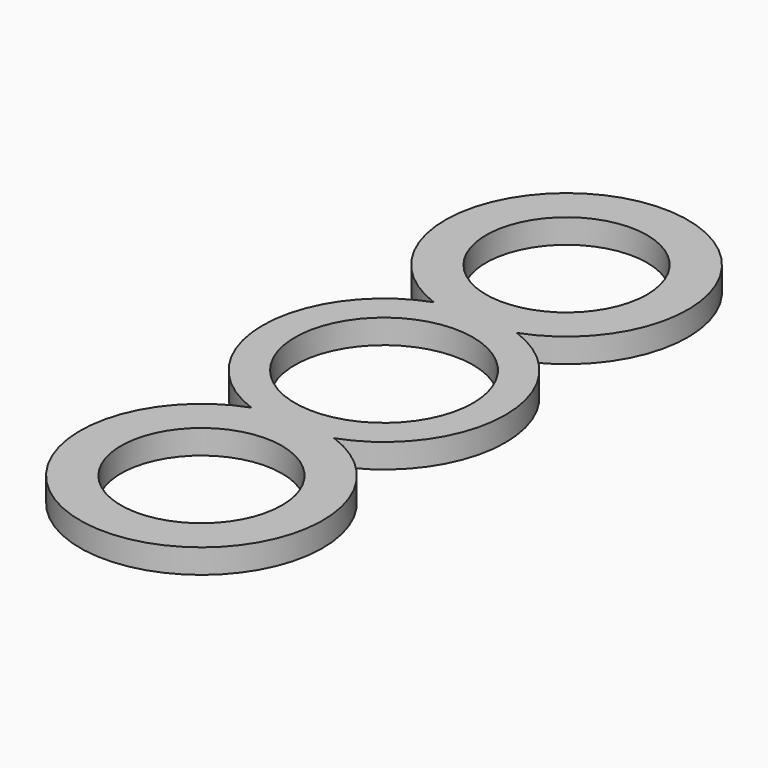
from build123d import *

# Parameters (mm, degrees)
F0_R     = 9.95
F0_R_2   = 11
F1_DEPTH = 3


with BuildPart() as f1:
    # F0 (on Top) → F1 (new body)
    with BuildSketch(Plane.XY):
        with BuildLine():
            ThreePointArc((5.122107, 14.09837), (0, 43.196739), (-5.122107, 14.09837))
            ThreePointArc((-5.122107, 14.09837), (-15, -0.000191), (-5.121748, -14.0985))
            ThreePointArc((-5.121748, -14.0985), (0, -43.197), (5.121748, -14.0985))
            ThreePointArc((5.121748, -14.0985), (15, -0.000191), (5.122107, 14.09837))
        make_face()
        with Locations((0, -28.197)):
            Circle(F0_R, mode=Mode.SUBTRACT)
        Circle(F0_R_2, mode=Mode.SUBTRACT)
        with Locations((0, 28.196739)):
            Circle(F0_R, mode=Mode.SUBTRACT)
    extrude(amount=F1_DEPTH)


solid = f1.part
